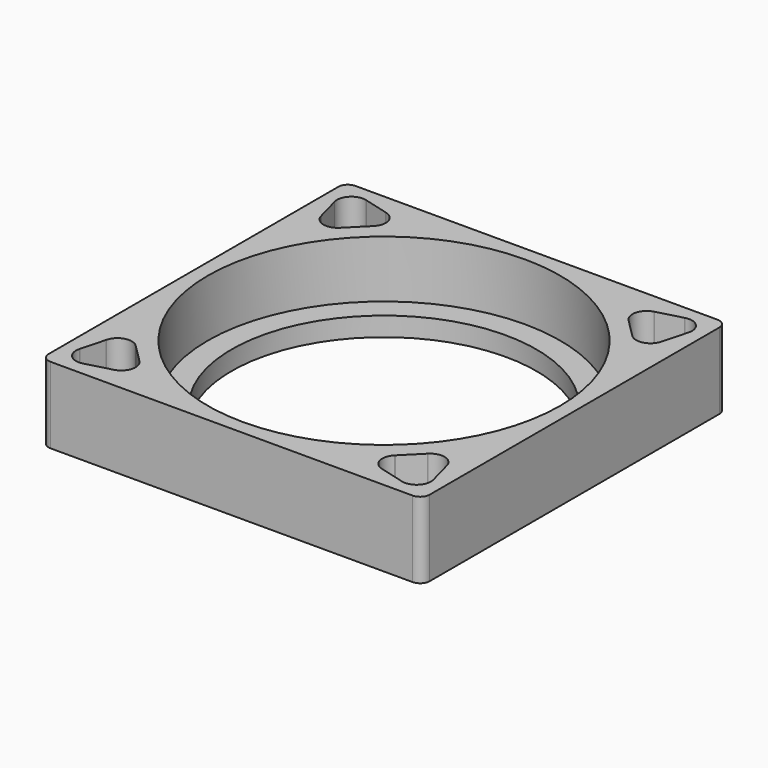
from build123d import *

# Parameters (mm, degrees)
SKETCH_W        = 40
SKETCH_H        = 40
SKETCH_R        = 16
PAD_DEPTH       = 8
SKETCH005_R     = 1.5
POCKET003_DEPTH = 8.001
POCKET_DEPTH    = 4
SKETCH006_R     = 18.5
POCKET004_DEPTH = 6
FILLET_R        = 1


with BuildPart() as part:
    # Sketch → Pad (new body)
    with BuildSketch(Plane.XY):
        Rectangle(SKETCH_W, SKETCH_H)
        Circle(SKETCH_R, mode=Mode.SUBTRACT)
    extrude(amount=PAD_DEPTH)

    # Sketch005 (on Face6 of Pad) → Pocket003 (cut, through all)
    with BuildSketch(Plane(origin=(0, 0, 0), x_dir=(1, 0, 0), z_dir=(0, 0, -1))):
        with Locations((-16, 16)):
            Circle(SKETCH005_R)
        with Locations((16, 16)):
            Circle(SKETCH005_R)
        with Locations((-16, -16)):
            Circle(SKETCH005_R)
        with Locations((16, -16)):
            Circle(SKETCH005_R)
    extrude(amount=-POCKET003_DEPTH, mode=Mode.SUBTRACT)

    # Sketch004 (on Face5 of Pocket003) → Pocket (cut)
    with BuildSketch(Plane.XY.offset(8)):
        with BuildLine():
            Line((13.434683, 15.312625), (15.312625, 13.434683))
            Line((15.312625, 13.434683), (15.35345, 13.393859))
            ThreePointArc((15.35345, 13.393859), (16.802339, 13.00563), (17.862999, 14.06629))
            Line((17.877942, 14.122058), (17.862999, 14.06629))
            Line((17.877942, 14.122058), (18.565317, 16.687375))
            Line((18.565317, 16.687375), (18.58026, 16.743142))
            ThreePointArc((18.58026, 16.743142), (18.192031, 18.192031), (16.743142, 18.58026))
            Line((16.687375, 18.565317), (16.743142, 18.58026))
            Line((16.687375, 18.565317), (14.122058, 17.877942))
            Line((14.122058, 17.877942), (14.06629, 17.862999))
            ThreePointArc((14.06629, 17.862999), (13.00563, 16.802339), (13.393859, 15.35345))
            Line((13.434683, 15.312625), (13.393859, 15.35345))
        make_face()
        with BuildLine():
            Line((14.122058, -17.877942), (16.687375, -18.565317))
            Line((16.687375, -18.565317), (16.743142, -18.58026))
            ThreePointArc((16.743142, -18.58026), (18.192031, -18.192031), (18.58026, -16.743142))
            Line((18.565317, -16.687375), (18.58026, -16.743142))
            Line((18.565317, -16.687375), (17.877942, -14.122058))
            Line((17.877942, -14.122058), (17.862999, -14.06629))
            ThreePointArc((17.862999, -14.06629), (16.802339, -13.00563), (15.35345, -13.393859))
            Line((15.312625, -13.434683), (15.35345, -13.393859))
            Line((15.312625, -13.434683), (13.434683, -15.312625))
            Line((13.434683, -15.312625), (13.393859, -15.35345))
            ThreePointArc((13.393859, -15.35345), (13.00563, -16.802339), (14.06629, -17.862999))
            Line((14.122058, -17.877942), (14.06629, -17.862999))
        make_face()
        with BuildLine():
            Line((-14.122058, 17.877942), (-16.687375, 18.565317))
            Line((-16.687375, 18.565317), (-16.743142, 18.58026))
            ThreePointArc((-16.743142, 18.58026), (-18.192031, 18.192031), (-18.58026, 16.743142))
            Line((-18.565317, 16.687375), (-18.58026, 16.743142))
            Line((-18.565317, 16.687375), (-17.877942, 14.122058))
            Line((-17.877942, 14.122058), (-17.862999, 14.06629))
            ThreePointArc((-17.862999, 14.06629), (-16.802339, 13.00563), (-15.35345, 13.393859))
            Line((-15.312625, 13.434683), (-15.35345, 13.393859))
            Line((-15.312625, 13.434683), (-13.434683, 15.312625))
            Line((-13.434683, 15.312625), (-13.393859, 15.35345))
            ThreePointArc((-13.393859, 15.35345), (-13.00563, 16.802339), (-14.06629, 17.862999))
            Line((-14.122058, 17.877942), (-14.06629, 17.862999))
        make_face()
        with BuildLine():
            Line((-13.434683, -15.312625), (-15.312625, -13.434683))
            Line((-15.312625, -13.434683), (-15.35345, -13.393859))
            ThreePointArc((-15.35345, -13.393859), (-16.802339, -13.00563), (-17.862999, -14.06629))
            Line((-17.877942, -14.122058), (-17.862999, -14.06629))
            Line((-17.877942, -14.122058), (-18.565317, -16.687375))
            Line((-18.565317, -16.687375), (-18.58026, -16.743142))
            ThreePointArc((-18.58026, -16.743142), (-18.192031, -18.192031), (-16.743142, -18.58026))
            Line((-16.687375, -18.565317), (-16.743142, -18.58026))
            Line((-16.687375, -18.565317), (-14.122058, -17.877942))
            Line((-14.122058, -17.877942), (-14.06629, -17.862999))
            ThreePointArc((-14.06629, -17.862999), (-13.00563, -16.802339), (-13.393859, -15.35345))
            Line((-13.434683, -15.312625), (-13.393859, -15.35345))
        make_face()
    extrude(amount=-POCKET_DEPTH, mode=Mode.SUBTRACT)

    # Sketch006 (on Face5 of Pocket) → Pocket004 (cut)
    with BuildSketch(Plane.XY.offset(8)):
        Circle(SKETCH006_R)
    extrude(amount=-POCKET004_DEPTH, mode=Mode.SUBTRACT)

    # Fillet
    fillet_edges = [part.edges().sort_by_distance(p)[0] for p in [
        (-20, -20, 4),
        (-20, 20, 4),
        (20, -20, 4),
        (20, 20, 4),
    ]]
    fillet(fillet_edges, radius=FILLET_R)


solid = part.part
